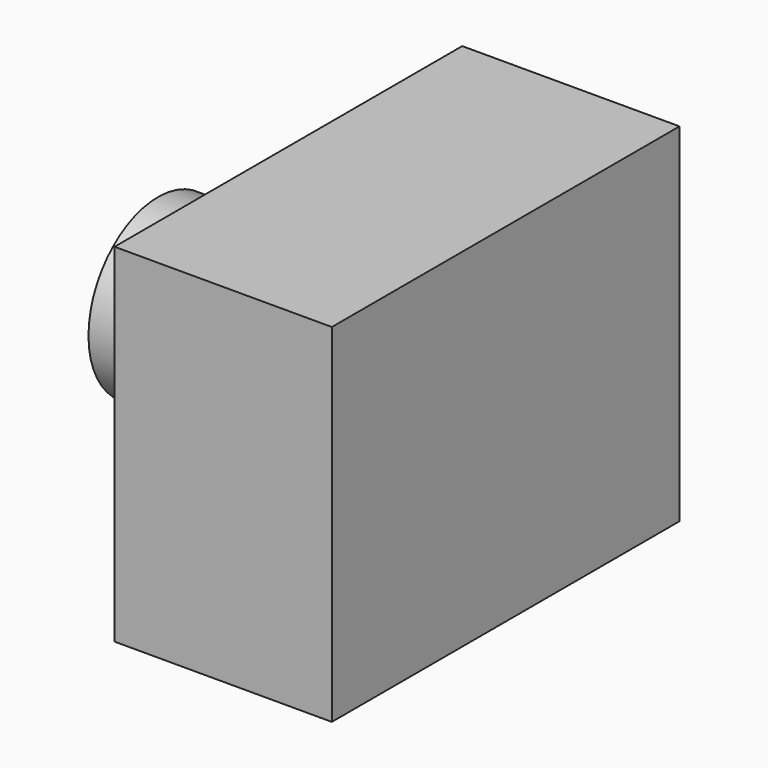
from build123d import *

# Parameters (mm, degrees)
F0_W     = 10
F0_H     = 20
F1_DEPTH = 16
F2_R     = 4
F3_DEPTH = 6


with BuildPart() as f1:
    # F0 (on Top) → F1 (new body)
    with BuildSketch(Plane.XY):
        Rectangle(F0_W, F0_H)
    extrude(amount=F1_DEPTH)

    # F2 (on face) → F3 (join)
    with BuildSketch(Plane(origin=(-5, 0, 0), x_dir=(0, -1, 0), z_dir=(-1, 0, 0))):
        with Locations((0, 8)):
            Circle(F2_R)
    extrude(amount=F3_DEPTH)


solid = f1.part
